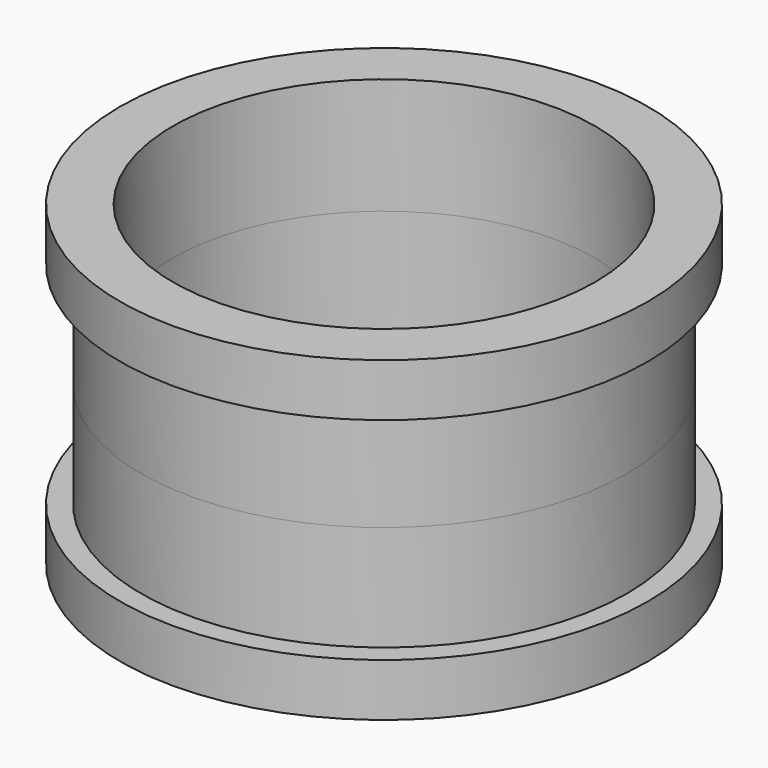
from build123d import *

# Parameters (mm, degrees)
F0_R     = 13.75
F0_R_2   = 11.075
F2_DEPTH = 6.5
F0_R_3   = 7.5
F3_DEPTH = 3
F4_W     = 2
F4_H     = 4
F8_R     = 0.4


with BuildPart() as f2:
    # F0 (on Top) → F2 (new body)
    with BuildSketch(Plane.XY):
        Circle(F0_R)
        Circle(F0_R_2, mode=Mode.SUBTRACT)
    extrude(amount=F2_DEPTH)

    # F0 (on Top) → F3 (join)
    with BuildSketch(Plane.XY):
        Circle(F0_R_2)
        Circle(F0_R_3, mode=Mode.SUBTRACT)
    extrude(amount=F3_DEPTH)


with BuildPart() as f6:
    # F4 (on Front) → F6 (revolve)
    with BuildSketch(Plane.XZ):
        Polygon((23, 5), (23, 15), (22, 15), (20, 15), (20, 0), (25, 0), (25, 5), align=None)
        with Locations((21, 17)):
            Rectangle(F4_W, F4_H)
    revolve(axis=Axis((0, 0, 0), (0, 0, -1)))

    # F8
    f8_edges = [f6.edges().sort_by_distance(p)[0] for p in [
        (-22, 0, 19),
    ]]
    fillet(f8_edges, radius=F8_R)


with BuildPart() as f7:
    # F5 (on Front) → F7 (revolve)
    with BuildSketch(Plane.XZ):
        Polygon((25, 30), (20, 30), (20, 19), (22.2, 19), (22.2, 15), (23, 15), (23, 25), (25, 25), align=None)
    revolve(axis=Axis((0, 0, 0), (0, 0, -1)))


solid = Compound([f2.part, f6.part, f7.part])
